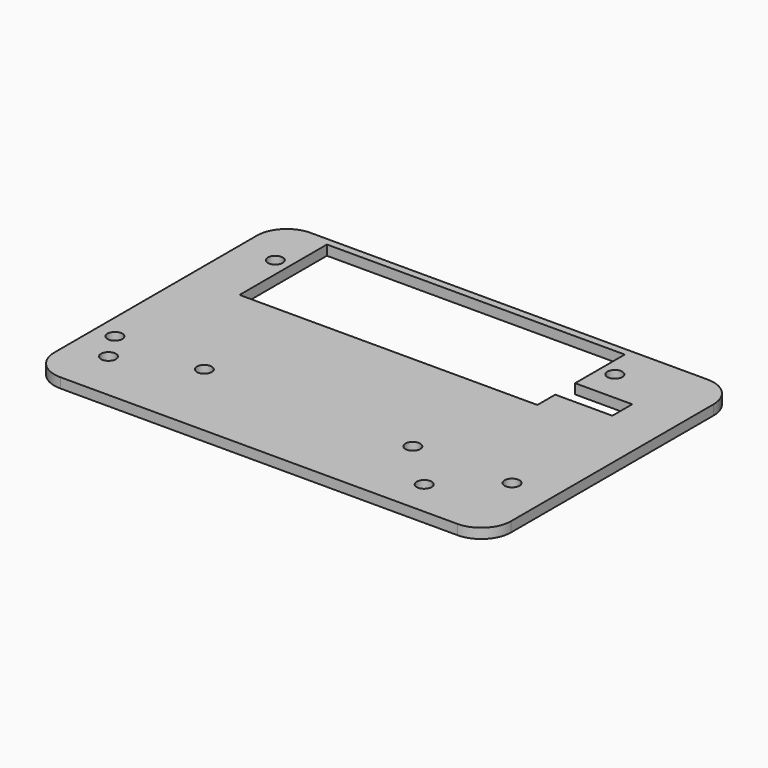
from build123d import *

# Parameters (mm, degrees)
BOX009_W          = 12
BOX009_H          = 5
BOX009_DEPTH      = 10
BOX008_W          = 60
BOX008_H          = 22
BOX008_DEPTH      = 10
CYLINDER014_R     = 1.5
CYLINDER014_DEPTH = 20
CYLINDER013_R     = 1.5
CYLINDER013_DEPTH = 20
CYLINDER012_R     = 1.5
CYLINDER012_DEPTH = 20
CYLINDER015_R     = 1.5
CYLINDER015_DEPTH = 20
CYLINDER009_R     = 1.5
CYLINDER009_DEPTH = 20
CYLINDER010_R     = 1.5
CYLINDER010_DEPTH = 20
CYLINDER011_R     = 1.5
CYLINDER011_DEPTH = 20
CYLINDER008_R     = 1.5
CYLINDER008_DEPTH = 20
BOX003_W          = 92
BOX003_H          = 63
BOX003_DEPTH      = 2
FILLET001_R       = 6


with BuildPart() as cube006:
    # Box009 → Box009 (new body)
    with BuildSketch(Plane(origin=(68, 43, 20), x_dir=(1, 0, 0), z_dir=(0, 0, 1))):
        with Locations((6, 2.5)):
            Rectangle(BOX009_W, BOX009_H)
    extrude(amount=BOX009_DEPTH)


with BuildPart() as cube005:
    # Box008 → Box008 (new body)
    with BuildSketch(Plane(origin=(8.5, 38.5, 20), x_dir=(1, 0, 0), z_dir=(0, 0, 1))):
        with Locations((30, 11)):
            Rectangle(BOX008_W, BOX008_H)
    extrude(amount=BOX008_DEPTH)


with BuildPart() as cylinder014:
    # Cylinder014 → Cylinder014 (new body)
    with BuildSketch(Plane(origin=(82, 15.25, 20), x_dir=(1, 0, 0), z_dir=(0, 0, 1))):
        Circle(CYLINDER014_R)
    extrude(amount=CYLINDER014_DEPTH)


with BuildPart() as cylinder013:
    # Cylinder013 → Cylinder013 (new body)
    with BuildSketch(Plane(origin=(20, 15.25, 20), x_dir=(1, 0, 0), z_dir=(0, 0, 1))):
        Circle(CYLINDER013_R)
    extrude(amount=CYLINDER013_DEPTH)


with BuildPart() as cylinder012:
    # Cylinder012 → Cylinder012 (new body)
    with BuildSketch(Plane(origin=(2, 15.25, 20), x_dir=(1, 0, 0), z_dir=(0, 0, 1))):
        Circle(CYLINDER012_R)
    extrude(amount=CYLINDER012_DEPTH)


with BuildPart() as fusion003:
    # Cylinder015 → Cylinder015 (new body)
    with BuildSketch(Plane(origin=(62, 15.25, 20), x_dir=(1, 0, 0), z_dir=(0, 0, 1))):
        Circle(CYLINDER015_R)
    extrude(amount=CYLINDER015_DEPTH)

    # Fusion003: union Cylinder014, Cylinder013, Cylinder012
    add(cylinder014.part)
    add(cylinder013.part)
    add(cylinder012.part)


with BuildPart() as cylinder009:
    # Cylinder009 → Cylinder009 (new body)
    with BuildSketch(Plane(origin=(5.5, 9.25, 20), x_dir=(1, 0, 0), z_dir=(0, 0, 1))):
        Circle(CYLINDER009_R)
    extrude(amount=CYLINDER009_DEPTH)


with BuildPart() as cylinder010:
    # Cylinder010 → Cylinder010 (new body)
    with BuildSketch(Plane(origin=(5.5, 51.25, 20), x_dir=(1, 0, 0), z_dir=(0, 0, 1))):
        Circle(CYLINDER010_R)
    extrude(amount=CYLINDER010_DEPTH)


with BuildPart() as cylinder011:
    # Cylinder011 → Cylinder011 (new body)
    with BuildSketch(Plane(origin=(71.5, 54.25, 20), x_dir=(1, 0, 0), z_dir=(0, 0, 1))):
        Circle(CYLINDER011_R)
    extrude(amount=CYLINDER011_DEPTH)


with BuildPart() as fusion002:
    # Cylinder008 → Cylinder008 (new body)
    with BuildSketch(Plane(origin=(71.5, 6.25, 20), x_dir=(1, 0, 0), z_dir=(0, 0, 1))):
        Circle(CYLINDER008_R)
    extrude(amount=CYLINDER008_DEPTH)

    # Fusion002: union Cylinder009, Cylinder010, Cylinder011
    add(cylinder009.part)
    add(cylinder010.part)
    add(cylinder011.part)


with BuildPart() as middle_base:
    # Box003 → Box003 (new body)
    with BuildSketch(Plane(origin=(-2, -1, 0), x_dir=(1, 0, 0), z_dir=(0, 0, 1))):
        with Locations((46, 31.5)):
            Rectangle(BOX003_W, BOX003_H)
    extrude(amount=BOX003_DEPTH)

    # Fillet001
    fillet001_edges = [middle_base.edges().sort_by_distance(p)[0] for p in [
        (-2, -1, 1),
        (-2, 62, 1),
        (90, -1, 1),
        (90, 62, 1),
    ]]
    fillet(fillet001_edges, radius=FILLET001_R)


with BuildPart() as middle_base_1:
    # Fillet001 placement: moved
    add(middle_base.part.moved(Location((0, 0, 26))))

    # Cut002: cut Fusion002
    add(fusion002.part, mode=Mode.SUBTRACT)

    # Cut003: cut Fusion003
    add(fusion003.part, mode=Mode.SUBTRACT)

    # Cut007: cut Cube005
    add(cube005.part, mode=Mode.SUBTRACT)

    # Cut008: cut Cube006
    add(cube006.part, mode=Mode.SUBTRACT)


with BuildPart() as middle_base_2:
    # Cut008 placement: moved
    add(middle_base_1.part.moved(Location((0, 0, -6))))


solid = middle_base_2.part
